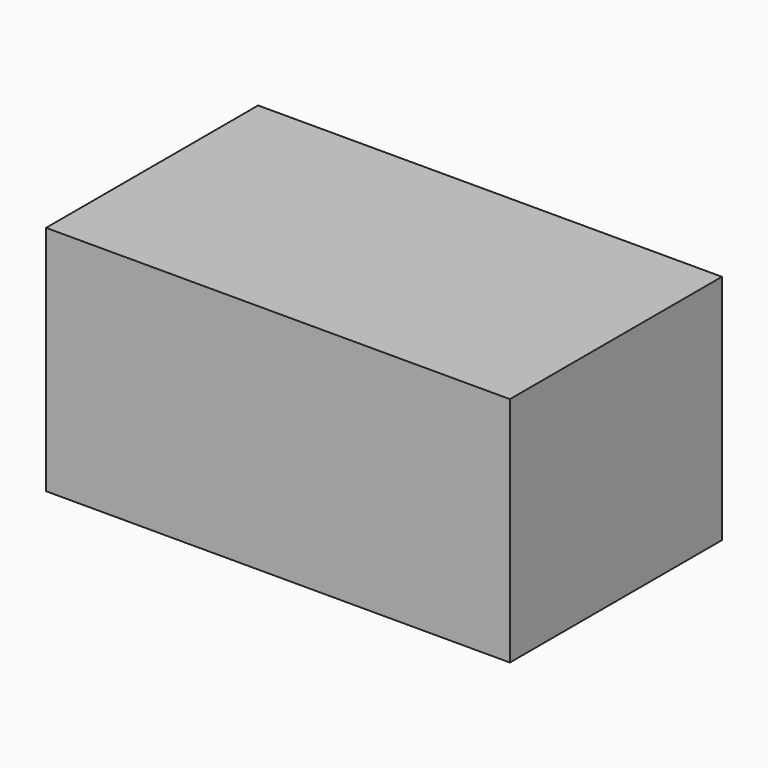
from build123d import *

# Parameters (mm, degrees)
SKETCH_W  = 70
SKETCH_H  = 40
PAD_DEPTH = 17.5


with BuildPart() as part:
    # Sketch → Pad (new body, symmetric)
    with BuildSketch(Plane.XY):
        Rectangle(SKETCH_W, SKETCH_H)
    extrude(amount=PAD_DEPTH, both=True)


solid = part.part
